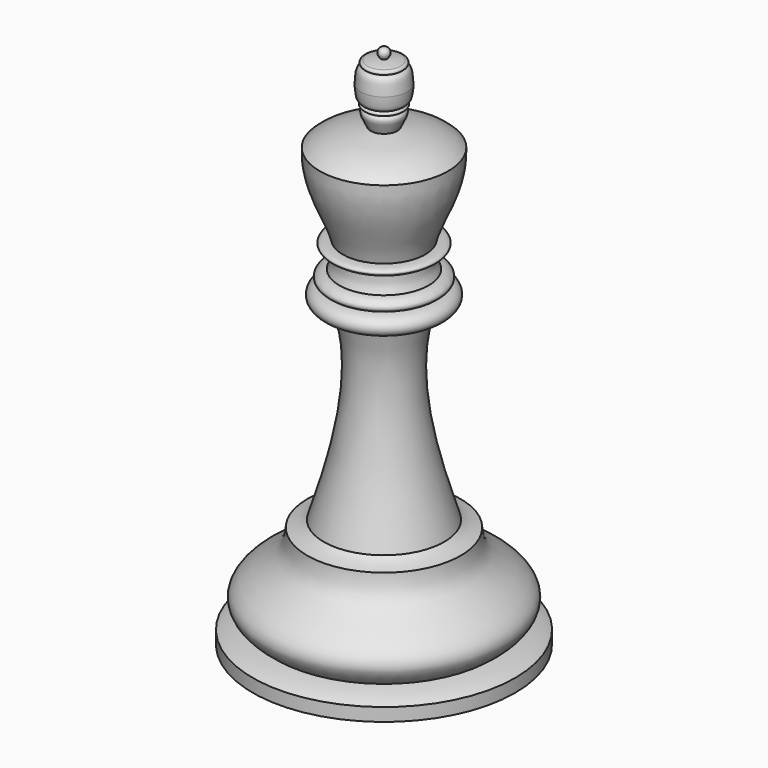
from build123d import *


with BuildPart() as f1:
    # F0 (on Front) → F1 (revolve)
    with BuildSketch(Plane.XZ):
        with BuildLine():
            Line((-10, 0), (0, 0))
            Line((0, 0), (0, 40.0581546128))
            add(Edge.make_bspline(
                [(-0.2336277976, 39.3323302269), (-0.5892096087, 39.7158116102), (-0.3209102724, 40.073543787), (0, 40.0581546128)],
                knots=[0, 0, 0, 0, 0.7624978603, 0.7624978603, 0.7624978603, 0.7624978603], degree=3))
            add(Edge.make_bspline(
                [(-1.2577483431, 39.1858321938), (-0.9331846959, 39.2717383802), (-0.5978822592, 39.308257401), (-0.2336277976, 39.3323302269)],
                knots=[0, 0, 0, 0, 1.034545584, 1.034545584, 1.034545584, 1.034545584], degree=3))
            add(Edge.make_bspline(
                [(-1.2577483431, 38.8471527553), (-1.5821445054, 38.9407239854), (-1.4635675838, 39.1688384116), (-1.2577483431, 39.1858321938)],
                knots=[0, 0, 0, 0, 0.3386794385, 0.3386794385, 0.3386794385, 0.3386794385], degree=3))
            add(Edge.make_bspline(
                [(-1.7529589333, 37.6139946181), (-1.7535580341, 38.3370518684), (-1.6591304798, 38.8432735081), (-1.2577483431, 38.8471527553)],
                knots=[0, 0, 0, 0, 1.3288764126, 1.3288764126, 1.3288764126, 1.3288764126], degree=3))
            add(Edge.make_bspline(
                [(-1.2577483431, 36.4483824017), (-1.6591304798, 36.4228033899), (-1.7535580341, 36.891104792), (-1.7529589333, 37.6139946181)],
                knots=[0, 0, 0, 0, 1.2664459593, 1.2664459593, 1.2664459593, 1.2664459593], degree=3))
            add(Edge.make_bspline(
                [(-1.2577483431, 36.0792092979), (-1.5325045465, 36.1723558855), (-1.6265095696, 36.3674908876), (-1.2577483431, 36.4483824017)],
                knots=[0, 0, 0, 0, 0.3691731038, 0.3691731038, 0.3691731038, 0.3691731038], degree=3))
            add(Edge.make_bspline(
                [(-1.0152843315, 34.7596369684), (-1.2525051134, 35.3410393), (-1.6511742724, 35.7824973762), (-1.2577483431, 36.0792092979)],
                knots=[0, 0, 0, 0, 1.3416631208, 1.3416631208, 1.3416631208, 1.3416631208], degree=3))
            add(Edge.make_bspline(
                [(-4.8987055197, 33.3290398121), (-3.8337125443, 34.3485586345), (-2.3038992658, 34.5383882523), (-1.0152843315, 34.7596369684)],
                knots=[0, 0, 0, 0, 4.1385466469, 4.1385466469, 4.1385466469, 4.1385466469], degree=3))
            add(Edge.make_bspline(
                [(-3.1416462734, 27.1664019674), (-3.4629197326, 28.7026185542), (-5.0028837286, 30.7298786938), (-4.8987055197, 33.3290398121)],
                knots=[0, 0, 0, 0, 6.4082261508, 6.4082261508, 6.4082261508, 6.4082261508], degree=3))
            add(Edge.make_bspline(
                [(-3.1416462734, 26.4070779085), (-4.8278025351, 27.0186718553), (-3.4540572669, 27.2225178778), (-3.1416462734, 27.1664019674)],
                knots=[0, 0, 0, 0, 0.7593240589, 0.7593240589, 0.7593240589, 0.7593240589], degree=3))
            add(Edge.make_bspline(
                [(-3.4049197566, 25.1787602901), (-3.152719466, 25.5917496979), (-3.1349938363, 25.9905774146), (-3.1416462734, 26.4070779085)],
                knots=[0, 0, 0, 0, 1.256215387, 1.256215387, 1.256215387, 1.256215387], degree=3))
            add(Edge.make_bspline(
                [(-3.6017508246, 24.2164153606), (-4.8036566004, 24.5732311159), (-3.8177182432, 25.2493023872), (-3.4049197566, 25.1787602901)],
                knots=[0, 0, 0, 0, 0.9822679028, 0.9822679028, 0.9822679028, 0.9822679028], degree=3))
            add(Edge.make_bspline(
                [(-3.1416462734, 22.7422025055), (-5.104132928, 22.5637946278), (-5.0413438585, 24.1813976318), (-3.6017508246, 24.2164153606)],
                knots=[0, 0, 0, 0, 1.544344437, 1.544344437, 1.544344437, 1.544344437], degree=3))
            add(Edge.make_bspline(
                [(-4.5885704458, 8.3619793877), (-3.3253929578, 12.4685317278), (-1.5325816348, 18.2198379189), (-3.1416462734, 22.7422025055)],
                knots=[0, 0, 0, 0, 14.4528338563, 14.4528338563, 14.4528338563, 14.4528338563], degree=3))
            add(Edge.make_bspline(
                [(-5.8443131857, 7.8472318128), (-5.3724357858, 7.9208863899), (-4.9498910084, 8.0523453653), (-4.5885704458, 8.3619793877)],
                knots=[0, 0, 0, 0, 1.3571495476, 1.3571495476, 1.3571495476, 1.3571495476], degree=3))
            add(Edge.make_bspline(
                [(-8.1155896187, 1.5681828372), (-10.4747600853, 3.2206526957), (-7.1540302908, 5.4220621169), (-5.9085176326, 6.3344514929), (-5.8443131857, 7.8472318128)],
                knots=[0, 0, 0, 0, 0.5139338138, 1, 1, 1, 1], degree=3))
            add(Edge.make_bspline(
                [(-10, 1), (-9.4500910491, 1.3503837399), (-8.7736109272, 1.4498661039), (-8.1155896187, 1.5681828372)],
                knots=[0, 0, 0, 0, 1.9682058383, 1.9682058383, 1.9682058383, 1.9682058383], degree=3))
            Line((-10, 1), (-10, 0))
        make_face()
    revolve(axis=Axis((0, 0, 20.0290773064), (0, 0, -1)))


solid = f1.part
